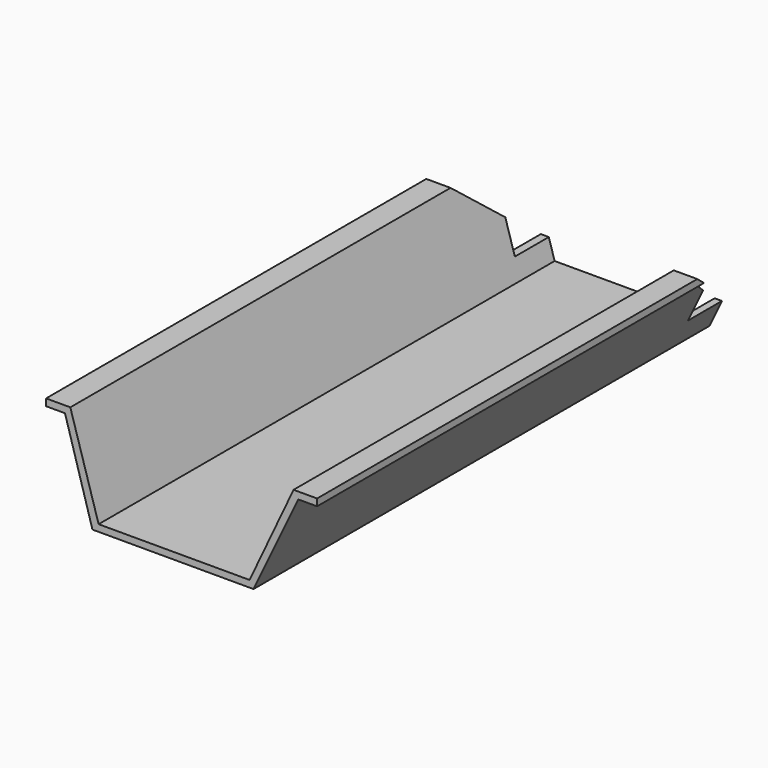
from build123d import *

# Parameters (mm, degrees)
F0_W     = 143
F0_H     = 53
F1_DEPTH = 365
F3_DEPTH = 143.001
F5_DEPTH = 300.785325
F6_DEPTH = 300.785325


with BuildPart() as f1:
    # F0 (on Front) → F1 (new body)
    with BuildSketch(Plane.XZ):
        with Locations((3.823606, -25.164385)):
            Rectangle(F0_W, F0_H)
    extrude(amount=F1_DEPTH)

    # F2 (on face) → F3 (cut, through all)
    with BuildSketch(Plane(origin=(-67.676394, 0, 0), x_dir=(0, -1, 0), z_dir=(-1, 0, 0))):
        Polygon((0, -51.664385), (64.215675, -51.664385), (64.215675, -37.959635), (86.616777, -37.959635), (86.616777, -21.311939), (114.20504, 1.335615), (0, 1.335615), (0, -16.486794), (0, -25.164385), align=None)
    extrude(amount=-F3_DEPTH, mode=Mode.SUBTRACT)

    # F4 (on face) → F5 (cut, through all)
    with BuildSketch(Plane.XZ.offset(365)):
        Polygon((-57.691015, -2.318196), (-67.676394, -2.318196), (-67.676394, -51.664385), (-43.213006, -51.664385), align=None)
        Polygon((65.37208, -2.318196), (41.786994, -51.664385), (75.323606, -51.664385), (75.323606, -2.318196), align=None)
    extrude(amount=-F5_DEPTH, mode=Mode.SUBTRACT)

    # F4 (on face) → F6 (cut, through all)
    with BuildSketch(Plane.XZ.offset(365)):
        Polygon((62.925503, 1.335615), (-54.888126, 1.335615), (-39.947845, -48.101962), (39.710268, -48.101962), align=None)
    extrude(amount=-F6_DEPTH, mode=Mode.SUBTRACT)


solid = f1.part
